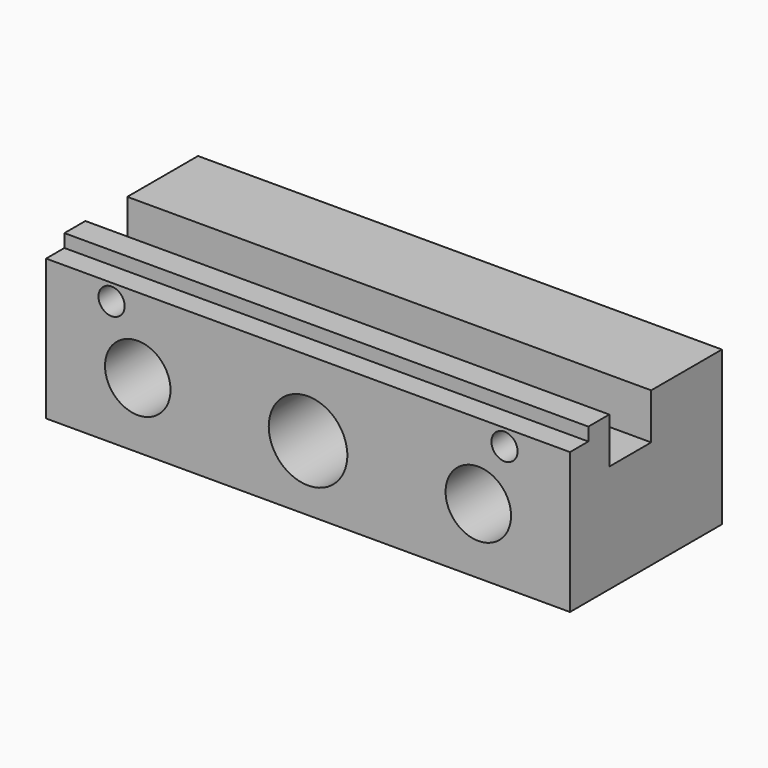
from build123d import *

# Parameters (mm, degrees)
F0_W      = 80
F0_H      = 23.5
F1_DEPTH  = 14.5
F2_W      = 80
F2_H      = 2
F3_DEPTH  = 3.5
F4_R      = 6
F5_DEPTH  = 29.001
F6_R      = 9.25
F7_DEPTH  = 12.5
F8_R      = 5
F9_DEPTH  = 29.001
F10_W     = 80
F10_H     = 8
F11_DEPTH = 7
F12_R     = 2
F13_DEPTH = 8


with BuildPart() as f1:
    # F0 (on Front) → F1 (new body, symmetric)
    with BuildSketch(Plane.XZ):
        with Locations((0, 1.75)):
            Rectangle(F0_W, F0_H)
    extrude(amount=F1_DEPTH, both=True)

    # F2 (on face) → F3 (cut)
    with BuildSketch(Plane.XZ.offset(14.5)):
        with Locations((0, 12.5)):
            Rectangle(F2_W, F2_H)
    extrude(amount=-F3_DEPTH, mode=Mode.SUBTRACT)

    # F4 (on face) → F5 (cut, through all)
    with BuildSketch(Plane(origin=(0, 14.5, 0), x_dir=(-1, 0, 0), z_dir=(0, 1, 0))):
        Circle(F4_R)
    extrude(amount=-F5_DEPTH, mode=Mode.SUBTRACT)

    # F6 (on face) → F7 (cut)
    with BuildSketch(Plane(origin=(0, 14.5, 0), x_dir=(-1, 0, 0), z_dir=(0, 1, 0))):
        Circle(F6_R)
    extrude(amount=-F7_DEPTH, mode=Mode.SUBTRACT)

    # F8 (on face) → F9 (cut, through all)
    with BuildSketch(Plane.XZ.offset(14.5)):
        with Locations((-26, 0)):
            Circle(F8_R)
        with Locations((26, 0)):
            Circle(F8_R)
    extrude(amount=-F9_DEPTH, mode=Mode.SUBTRACT)

    # F10 (on face) → F11 (cut)
    with BuildSketch(Plane.XY.offset(13.5)):
        with Locations((0, -3)):
            Rectangle(F10_W, F10_H)
    extrude(amount=-F11_DEPTH, mode=Mode.SUBTRACT)

    # F12 (on face) → F13 (cut)
    with BuildSketch(Plane.XZ.offset(14.5)):
        with Locations((-30, 9)):
            Circle(F12_R)
        with Locations((30, 9)):
            Circle(F12_R)
    extrude(amount=-F13_DEPTH, mode=Mode.SUBTRACT)


solid = f1.part
